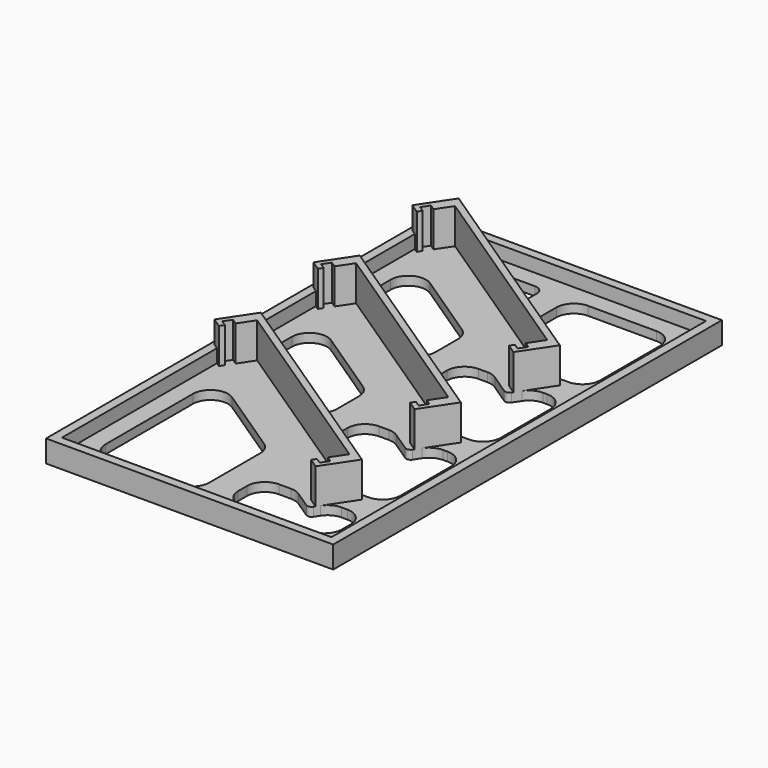
from build123d import *

# Parameters (mm, degrees)
SKETCH002_W            = 65
SKETCH002_H            = 110
SKETCH002_W_2          = 61
SKETCH002_H_2          = 106
PAD002_DEPTH           = 5
SKETCH003_W            = 65
SKETCH003_H            = 110
SKETCH003_W_2          = 23.5
SKETCH003_H_2          = 98.676263
SKETCH003_H_3          = 24.954477
SKETCH003_H_4          = 22.149553
SKETCH003_H_5          = 22.384941
SKETCH003_H_6          = 10.511029
PAD003_DEPTH           = 2
PAD001_DEPTH           = 10
SKETCH_W               = 59
SKETCH_H               = 10
PAD_DEPTH              = 2
FUSION_PLACEMENT_ANGLE = -33.7
FILLET_R               = 1
FILLET001_R            = 4
FILLET002_R            = 4
FILLET003_R            = 2


with BuildPart() as pad002:
    # Sketch002 → Pad002 (new body)
    with BuildSketch(Plane.XY):
        with Locations((32.5, -56.5)):
            Rectangle(SKETCH002_W, SKETCH002_H)
        with Locations((32.5, -56.5)):
            Rectangle(SKETCH002_W_2, SKETCH002_H_2, mode=Mode.SUBTRACT)
    extrude(amount=PAD002_DEPTH)


with BuildPart() as fusion001:
    # Sketch003 → Pad003 (new body)
    with BuildSketch(Plane.XY):
        with Locations((32.5, -56.5)):
            Rectangle(SKETCH003_W, SKETCH003_H)
        with Locations((17.75, -56.838131)):
            Rectangle(SKETCH003_W_2, SKETCH003_H_2, mode=Mode.SUBTRACT)
        with Locations((47.25, -19.977238)):
            Rectangle(SKETCH003_W_2, SKETCH003_H_3, mode=Mode.SUBTRACT)
        with Locations((47.25, -49.529253)):
            Rectangle(SKETCH003_W_2, SKETCH003_H_4, mode=Mode.SUBTRACT)
        with Locations((47.25, -77.7965)):
            Rectangle(SKETCH003_W_2, SKETCH003_H_5, mode=Mode.SUBTRACT)
        with Locations((47.25, -100.244485)):
            Rectangle(SKETCH003_W_2, SKETCH003_H_6, mode=Mode.SUBTRACT)
    extrude(amount=PAD003_DEPTH)

    # Fusion001: union Pad002
    add(pad002.part)


with BuildPart() as pad001:
    # Sketch001 → Pad001 (new body)
    with BuildSketch(Plane.XY):
        Polygon((0, 0), (0, -8.6), (2.6, -8.6), (2.6, -7.5), (1.1, -7.5), (1.1, -5.5), (2.6, -5.5), (2.6, -1.5), (56.4, -1.5), (56.4, -5.5), (57.9, -5.5), (57.9, -7.5), (56.4, -7.5), (56.4, -8.6), (59, -8.6), (59, 0), align=None)
    extrude(amount=PAD001_DEPTH)


with BuildPart() as relay001:
    # Sketch → Pad (new body)
    with BuildSketch(Plane.XY):
        with Locations((29.5, -5)):
            Rectangle(SKETCH_W, SKETCH_H)
    extrude(amount=PAD_DEPTH)

    # Fusion: union Pad001
    add(pad001.part)


with BuildPart() as relay001_1:
    # Fusion placement: moved
    add(relay001.part.moved(Location((5.548444, -1.680459, 0))).rotate(Axis((5.548444, -1.680459, 0), (0, 0, 1)), FUSION_PLACEMENT_ANGLE))


with BuildPart() as clone_of_relay002:
    # Clone001 base: copy of Relay001
    add(relay001_1.part)


with BuildPart() as clone_of_relay002_1:
    # Clone001 placement: moved
    add(clone_of_relay002.part.moved(Location((0, -56, 0))))


with BuildPart() as fillet003:
    # Clone base: copy of Relay001
    add(relay001_1.part)


with BuildPart() as fillet003_1:
    # Clone placement: moved
    add(fillet003.part.moved(Location((0, -28, 0))))

    # Fusion002: union Fusion001, Clone of Relay002, Relay001
    add(fusion001.part)
    add(clone_of_relay002_1.part)
    add(relay001_1.part)

    # Fillet
    fillet_edges = [fillet003_1.edges().sort_by_distance(p)[0] for p in [
        (49.085293, -98.735821, 1),
        (49.085293, -70.735821, 1),
        (49.085293, -42.735821, 1),
    ]]
    fillet(fillet_edges, radius=FILLET_R)

    # Fillet001
    fillet001_edges = [fillet003_1.edges().sort_by_distance(p)[0] for p in [
        (35.5, -94.988971, 1),
        (43.467128, -94.988971, 1),
        (51.584132, -94.988971, 1),
        (35.5, -66.60403, 1),
        (42.889933, -66.60403, 1),
        (51.840855, -66.60403, 1),
        (35.5, -38.454477, 1),
        (42.665688, -38.454477, 1),
        (51.940595, -38.454477, 1),
        (35.5, -7.5, 1),
        (35.5, -21.655663, 1),
        (51.692138, -32.454477, 1),
        (35.5, -49.655663, 1),
        (51.916383, -60.60403, 1),
        (35.5, -77.655663, 1),
        (52.493578, -88.988971, 1),
        (35.5, -105.5, 1),
        (59, -66.60403, 1),
        (59, -38.454477, 1),
        (59, -7.5, 1),
        (59, -94.988971, 1),
        (59, -105.5, 1),
        (59, -88.988971, 1),
        (59, -60.60403, 1),
        (59, -32.454477, 1),
    ]]
    fillet(fillet001_edges, radius=FILLET001_R)

    # Fillet002
    fillet002_edges = [fillet003_1.edges().sort_by_distance(p)[0] for p in [
        (29.5, -85.674054, 1),
        (29.5, -57.674054, 1),
        (29.5, -29.674054, 1),
        (6, -70.001503, 1),
        (6, -42.001503, 1),
        (6, -14.001503, 1),
        (6, -29.981609, 1),
        (6, -57.981609, 1),
        (6, -106.176263, 1),
        (29.5, -45.654161, 1),
        (29.5, -73.654161, 1),
        (29.5, -106.176263, 1),
    ]]
    fillet(fillet002_edges, radius=FILLET002_R)

    # Fillet003
    fillet003_edges = [fillet003_1.edges().sort_by_distance(p)[0] for p in [
        (29.5, -7.5, 1),
        (14.274478, -7.5, 1),
        (29.5, -17.654161, 1),
    ]]
    fillet(fillet003_edges, radius=FILLET003_R)


solid = fillet003_1.part
